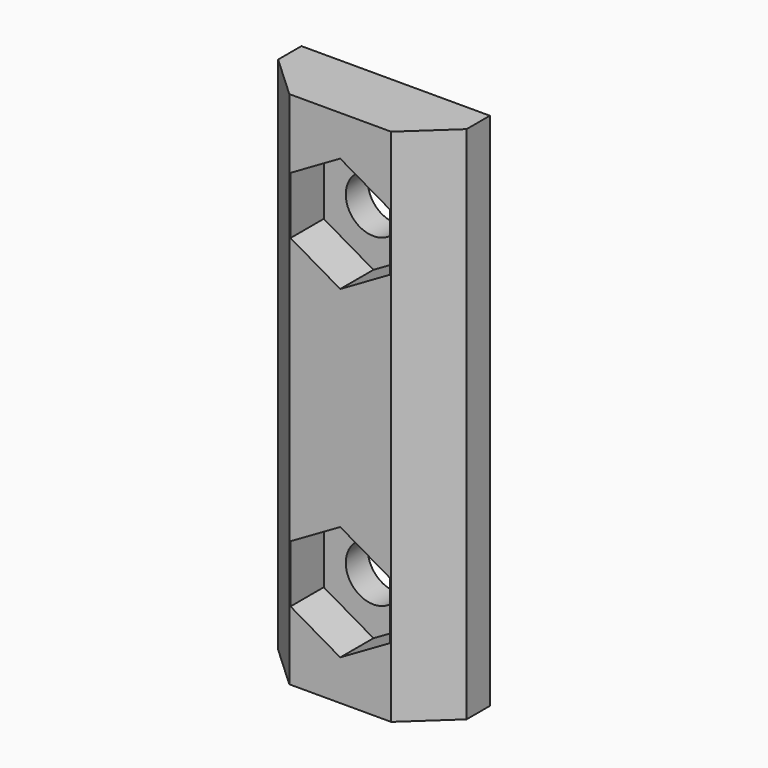
from build123d import *

# Parameters (mm, degrees)
PAD_DEPTH       = 30
SKETCH001_W     = 5.88
SKETCH001_H     = 1.68
POCKET_DEPTH    = 30
POCKET001_DEPTH = 2.4
SKETCH003_R     = 1.6
POCKET002_DEPTH = 4.001


with BuildPart() as part:
    # Sketch → Pad (new body)
    with BuildSketch(Plane.XY):
        Polygon((2.94, -2.84), (-2.94, -2.84), (-5.44, -0.52), (-5.44, 1.16), (-2.94, 1.16), (-2.94, 2.84), (2.94, 2.84), (2.94, 1.16), (5.44, 1.16), (5.44, -0.52), align=None)
    extrude(amount=PAD_DEPTH)

    # Sketch001 (on Face11 of Pad) → Pocket (cut)
    with BuildSketch(Plane(origin=(0, 0, 0), x_dir=(1, 0, 0), z_dir=(0, 0, -1))):
        with Locations((0, -2)):
            Rectangle(SKETCH001_W, SKETCH001_H)
    extrude(amount=-POCKET_DEPTH, mode=Mode.SUBTRACT)

    # Sketch002 (on Face1 of Pocket) → Pocket001 (cut)
    with BuildSketch(Plane.XZ.offset(2.84)):
        Polygon((0, 27.676491), (-2.87, 26.019495), (-2.87, 22.705505), (0, 21.048509), (2.87, 22.705505), (2.87, 26.019495), align=None)
        Polygon((2.87, 7.294495), (0, 8.951491), (-2.87, 7.294495), (-2.87, 3.980505), (0, 2.323509), (2.87, 3.980505), align=None)
    extrude(amount=-POCKET001_DEPTH, mode=Mode.SUBTRACT)

    # Sketch003 (on Face21 of Pocket001) → Pocket002 (cut, through all)
    with BuildSketch(Plane(origin=(0, 1.16, 0), x_dir=(-1, 0, 0), z_dir=(0, 1, 0))):
        with Locations((0, 24.3625)):
            Circle(SKETCH003_R)
        with Locations((0, 5.6375)):
            Circle(SKETCH003_R)
    extrude(amount=-POCKET002_DEPTH, mode=Mode.SUBTRACT)


solid = part.part
